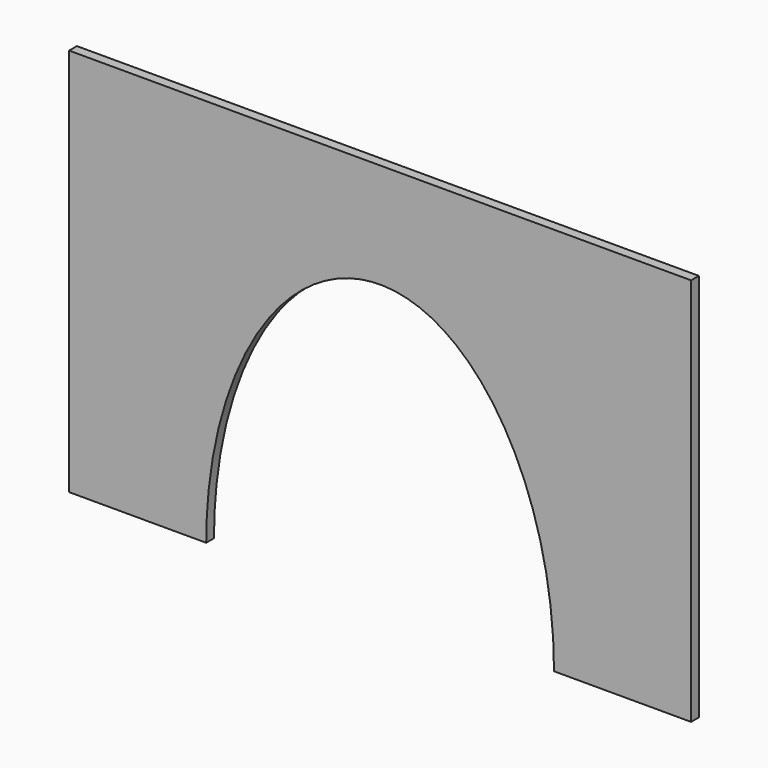
from build123d import *

# Parameters (mm, degrees)
F1_DEPTH = 3.175


with BuildPart() as f1:
    # F0 (on Front) → F1 (new body)
    with BuildSketch(Plane.XZ):
        with BuildLine():
            Line((0, 127), (0, 0))
            Line((0, 0), (44.7828951552, 0))
            add(Edge.make_bspline(
                [(158.4171048448, 0), (158.4171048448, 92.7580967546), (101.6, 92.7580967546), (44.7828951552, 92.7580967546), (44.7828951552, 0)],
                knots=[4.7123889804, 4.7123889804, 4.7123889804, 6.2831853072, 6.2831853072, 7.853981634, 7.853981634, 7.853981634], degree=2, weights=[1, 0.7071067812, 1, 0.7071067812, 1]))
            Line((158.4171048448, 0), (203.2, 0))
            Line((203.2, 0), (203.2, 127))
            Line((203.2, 127), (0, 127))
        make_face()
    extrude(amount=F1_DEPTH)


solid = f1.part
